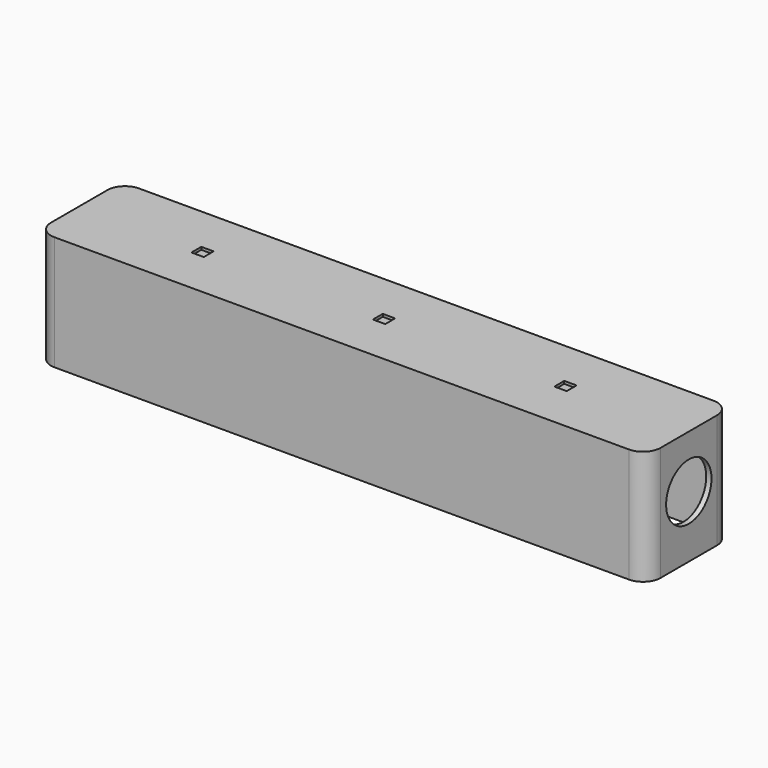
from build123d import *

# Parameters (mm, degrees)
PAD006_DEPTH           = 65
POCKET_DEPTH           = 63
SKETCH009_R            = 16.1
POCKET005_DEPTH        = 346.001
PAD009_DEPTH           = 10
LINEARPATTERN_COUNT    = 2
LINEARPATTERN_PITCH    = 103
LINEARPATTERN001_COUNT = 2
LINEARPATTERN001_PITCH = 103
SKETCH016_W            = 3
SKETCH016_H            = 5
PAD010_DEPTH           = 75
SKETCH020_W            = 10
SKETCH020_H            = 5
PAD011_DEPTH           = 6
CHAMFER001_SIZE        = 1.9
SKETCH021_W            = 7
SKETCH021_H            = 7
POCKET007_DEPTH        = 1.5
LINEARPATTERN002_COUNT = 2
LINEARPATTERN002_PITCH = 103
LINEARPATTERN003_COUNT = 2
LINEARPATTERN003_PITCH = 103
CHAMFER003_SIZE        = 2.2
CHAMFER008_SIZE        = 3.9


with BuildPart() as part:
    # Sketch007 → Pad006 (new body)
    with BuildSketch(Plane.XY):
        with BuildLine():
            Line((-173, 20), (-173, -20))
            ThreePointArc((-173, -20), (-170.071068, -27.071068), (-163, -30))
            Line((-163, -30), (163, -30))
            ThreePointArc((163, -30), (170.071068, -27.071068), (173, -20))
            Line((173, -20), (173, 20))
            ThreePointArc((173, 20), (170.071068, 27.071068), (163, 30))
            Line((163, 30), (-163, 30))
            ThreePointArc((-163, 30), (-170.071068, 27.071068), (-173, 20))
        make_face()
    extrude(amount=PAD006_DEPTH)

    # Sketch008 → Pocket (cut)
    with BuildSketch(Plane.XY):
        with BuildLine():
            Line((-170, 18), (-170, -18))
            ThreePointArc((-170, -18), (-167.071068, -25.071068), (-160, -28))
            Line((-160, -28), (160, -28))
            ThreePointArc((160, -28), (167.071068, -25.071068), (170, -18))
            Line((170, -18), (170, 18))
            ThreePointArc((170, 18), (167.071068, 25.071068), (160, 28))
            Line((160, 28), (-160, 28))
            ThreePointArc((-160, 28), (-167.071068, 25.071068), (-170, 18))
        make_face()
    extrude(amount=POCKET_DEPTH, mode=Mode.SUBTRACT)

    # Sketch009 → Pocket005 (cut, through all)
    with BuildSketch(Plane(origin=(-173, 0, 0), x_dir=(0, -1, 0), z_dir=(-1, 0, 0))):
        with Locations((0, 35)):
            Circle(SKETCH009_R)
    extrude(amount=-POCKET005_DEPTH, mode=Mode.SUBTRACT)

    # Sketch017 → Pad009 (join, symmetric)
    with BuildSketch(Plane.YZ):
        Polygon((-28, 63), (28, 63), (28, 10), (26, 20), (26, 59), (-26, 59), (-26, 15), (-28, 2.2), align=None)
    pad009 = extrude(amount=PAD009_DEPTH, both=True)

    # LinearPattern: Pad009 ×2
    with Locations(*[(-i * LINEARPATTERN_PITCH, 0, 0) for i in range(1, LINEARPATTERN_COUNT)]):
        add(pad009)

    # LinearPattern001: Pad009 ×2
    with Locations(*[(i * LINEARPATTERN001_PITCH, 0, 0) for i in range(1, LINEARPATTERN001_COUNT)]):
        add(pad009)

    # Sketch016 → Pad010 (join, symmetric)
    with BuildSketch(Plane.YZ):
        with Locations((-26.5, 4.7)):
            Rectangle(SKETCH016_W, SKETCH016_H)
    extrude(amount=PAD010_DEPTH, both=True)

    # Sketch020 (on Face1 of Pad010) → Pad011 (join)
    with BuildSketch(Plane(origin=(-173, 0, 0), x_dir=(0, -1, 0), z_dir=(-1, 0, 0))):
        with Locations((0, 60.5)):
            Rectangle(SKETCH020_W, SKETCH020_H)
    extrude(amount=-PAD011_DEPTH)

    # Chamfer001
    chamfer001_edges = [part.edges().sort_by_distance(p)[0] for p in [
        (113, -26, 37),
        (113, 26, 39.5),
        (10, 26, 39.5),
        (10, -26, 37),
        (-93, -26, 37),
        (-93, 26, 39.5),
        (-113, 26, 39.5),
        (-113, -26, 37),
        (-10, -26, 37),
        (-10, 26, 39.5),
        (93, 26, 39.5),
        (93, -26, 37),
    ]]
    chamfer(chamfer001_edges, length=CHAMFER001_SIZE)

    # Sketch021 → Pocket007 (cut)
    with BuildSketch(Plane.XY.offset(65)):
        Rectangle(SKETCH021_W, SKETCH021_H)
    pocket007 = extrude(amount=-POCKET007_DEPTH, mode=Mode.SUBTRACT)

    # LinearPattern002: Pocket007 ×2
    with Locations(*[(i * LINEARPATTERN002_PITCH, 0, 0) for i in range(1, LINEARPATTERN002_COUNT)]):
        add(pocket007, mode=Mode.SUBTRACT)

    # LinearPattern003: Pocket007 ×2
    with Locations(*[(-i * LINEARPATTERN003_PITCH, 0, 0) for i in range(1, LINEARPATTERN003_COUNT)]):
        add(pocket007, mode=Mode.SUBTRACT)

    # Chamfer003
    chamfer003_edges = [part.edges().sort_by_distance(p)[0] for p in [
        (75, -25, 4.7),
        (0, -25, 7.2),
        (-75, -25, 4.7),
    ]]
    chamfer(chamfer003_edges, length=CHAMFER003_SIZE)

    # Chamfer008
    chamfer008_edges = [part.edges().sort_by_distance(p)[0] for p in [
        (113, 0, 59),
        (93, 0, 59),
        (10, 0, 59),
        (-10, 0, 59),
        (-93, 0, 59),
        (-113, 0, 59),
    ]]
    chamfer(chamfer008_edges, length=CHAMFER008_SIZE)


with BuildPart() as part_1:
    # Body002 placement: moved
    add(part.part.moved(Location((0, 0, -60))))


solid = part_1.part
